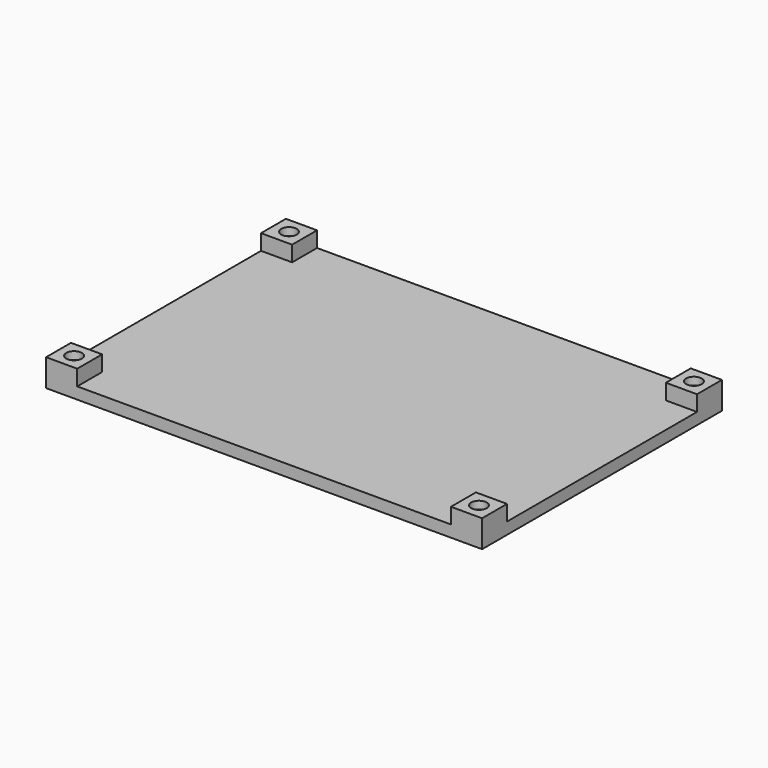
from build123d import *

# Parameters (mm, degrees)
F0_W     = 112
F0_H     = 77
F1_DEPTH = 3
F2_W     = 8
F2_H     = 8
F3_DEPTH = 4
F4_R     = 2
F5_DEPTH = 25.4
F6_R     = 3.1
F6_R_2   = 2
F7_DEPTH = 5


with BuildPart() as f1:
    # F0 (on Top) → F1 (new body)
    with BuildSketch(Plane.XY):
        Rectangle(F0_W, F0_H)
    extrude(amount=F1_DEPTH)

    # F2 (on face) → F3 (join)
    with BuildSketch(Plane.XY.offset(3)):
        with Locations((-52, 34.5)):
            Rectangle(F2_W, F2_H)
        with Locations((-52, -34.5)):
            Rectangle(F2_W, F2_H)
        with Locations((52, -34.5)):
            Rectangle(F2_W, F2_H)
        with Locations((52, 34.5)):
            Rectangle(F2_W, F2_H)
    extrude(amount=F3_DEPTH)

    # F4 (on face) → F5 (cut)
    with BuildSketch(Plane.XY.offset(7)):
        with Locations((-52, 34.5)):
            Circle(F4_R)
        with Locations((52, 34.5)):
            Circle(F4_R)
        with Locations((-52, -34.5)):
            Circle(F4_R)
        with Locations((52, -34.5)):
            Circle(F4_R)
    extrude(amount=-F5_DEPTH, mode=Mode.SUBTRACT)

    # F6 (on face) → F7 (cut)
    with BuildSketch(Plane(origin=(0, 0, 0), x_dir=(1, 0, 0), z_dir=(0, 0, -1))):
        with Locations((-52, 34.5)):
            Circle(F6_R)
        with Locations((-52, 34.5)):
            Circle(F6_R_2, mode=Mode.SUBTRACT)
        with Locations((52, 34.5)):
            Circle(F6_R)
        with Locations((52, 34.5)):
            Circle(F6_R_2, mode=Mode.SUBTRACT)
        with Locations((52, -34.5)):
            Circle(F6_R)
        with Locations((52, -34.5)):
            Circle(F6_R_2, mode=Mode.SUBTRACT)
        with Locations((-52, -34.5)):
            Circle(F6_R)
        with Locations((-52, -34.5)):
            Circle(F6_R_2, mode=Mode.SUBTRACT)
    extrude(amount=-F7_DEPTH, mode=Mode.SUBTRACT)


solid = f1.part
